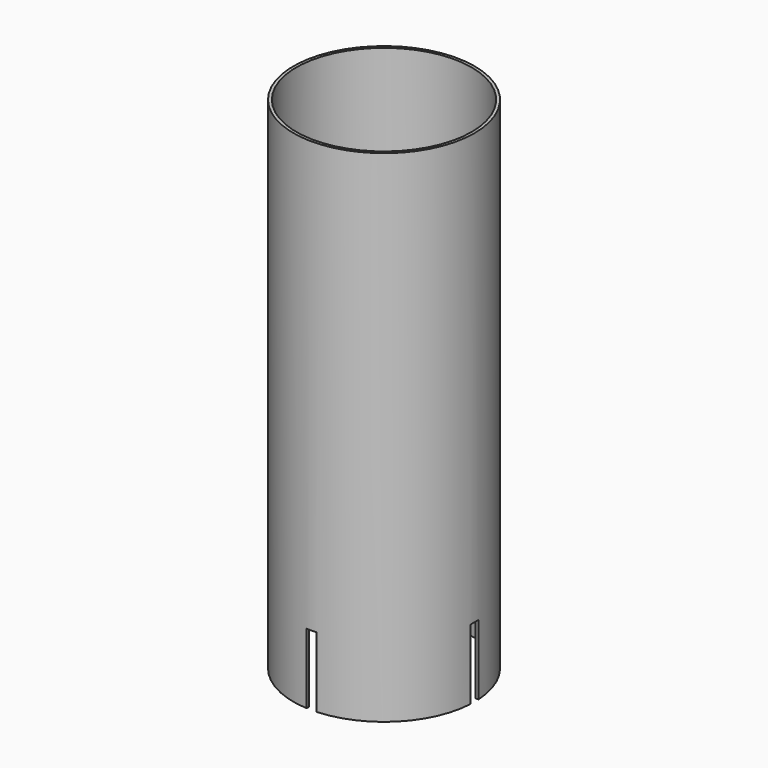
from build123d import *

# Parameters (mm, degrees)
F0_R     = 9.05
F0_R_2   = 8.75
F1_DEPTH = 50
F2_W     = 1
F2_H     = 9.05
F3_DEPTH = 7
F4_COUNT = 2
F4_ANGLE = 90


with BuildPart() as f1:
    # F0 (on Top) → F1 (new body)
    with BuildSketch(Plane.XY):
        Circle(F0_R)
        Circle(F0_R_2, mode=Mode.SUBTRACT)
    extrude(amount=F1_DEPTH)


with BuildPart() as f3:
    # F2 (on Top) → F3 (new body)
    with BuildSketch(Plane.XY):
        with Locations((0, 4.525)):
            Rectangle(F2_W, F2_H)
        with Locations((0, -4.525)):
            Rectangle(F2_W, F2_H)
    extrude(amount=F3_DEPTH)


with BuildPart() as f4_1:
    # F4: instance of F3
    add(f3.part.rotate(Axis((0, 0, 0), (0, 0, -1)), 1 * F4_ANGLE / (F4_COUNT - 1)))


with BuildPart() as f1_1:
    add(f1.part)

    # F5: cut F3, F4_1
    add(f3.part, mode=Mode.SUBTRACT)
    add(f4_1.part, mode=Mode.SUBTRACT)


solid = f1_1.part
